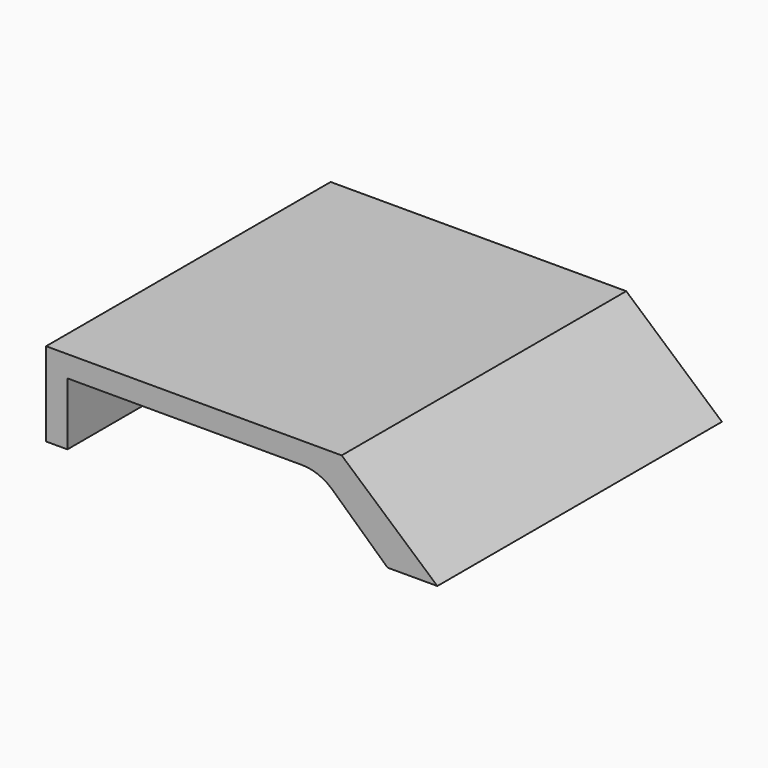
from build123d import *

# Parameters (mm, degrees)
F1_DEPTH = 50


with BuildPart() as f1:
    # F0 (on Front) → F1 (new body)
    with BuildSketch(Plane.XZ):
        with BuildLine():
            Line((-20.327587, 11.793104), (-20.327587, 0))
            Line((-20.327587, 0), (-17.327587, 0))
            Line((-17.327587, 0), (-17.327587, 8.793104))
            Line((-17.327587, 8.793104), (15.628933, 8.793104))
            ThreePointArc((15.628933, 8.793104), (17.934571, 8.359736), (19.925504, 7.118783))
            Line((19.925504, 7.118783), (27.672413, 0))
            Line((27.672413, 0), (34.672413, 0))
            Line((34.672413, 0), (21.224136, 11.793104))
            Line((21.224136, 11.793104), (-20.327587, 11.793104))
        make_face()
    extrude(amount=F1_DEPTH)


solid = f1.part
